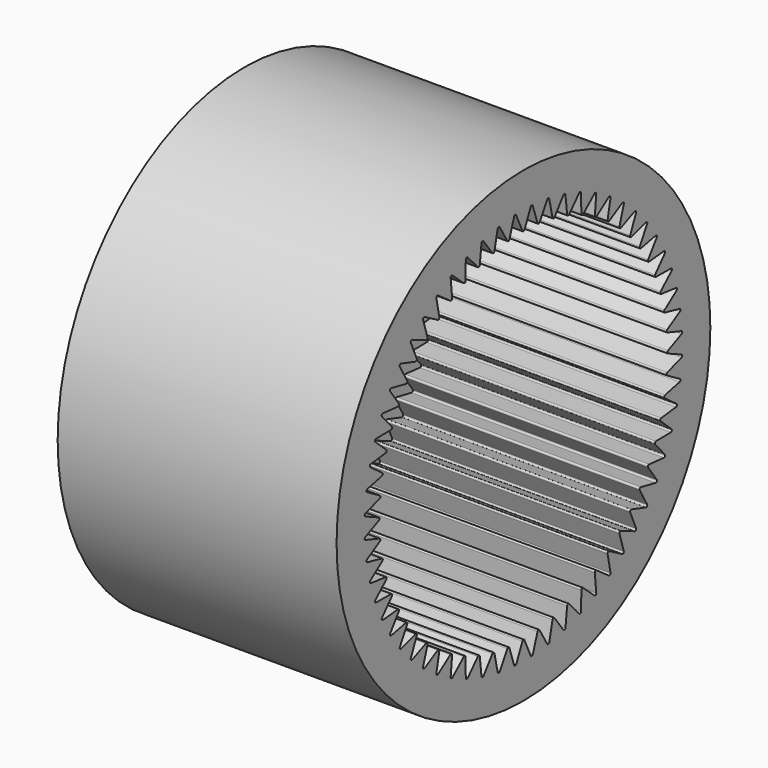
from build123d import *

# Parameters (mm, degrees)
F0_R     = 33.5
F1_DEPTH = 40
F3_DEPTH = 35
F4_R     = 3.05
F5_DEPTH = 40.001


with BuildPart() as f1:
    # F0 (on Right) → F1 (new body)
    with BuildSketch(Plane.YZ):
        Circle(F0_R)
    extrude(amount=F1_DEPTH)

    # F2 (on face) → F3 (cut)
    with BuildSketch(Plane.YZ.offset(40)):
        with BuildLine():
            Line((-0.181921, 25.898279), (-1.299187, 28.344311))
            ThreePointArc((-1.299187, 28.344311), (-1.491575, 28.460942), (-1.670718, 28.32484))
            Line((-1.670718, 28.32484), (-2.526183, 25.775422))
            ThreePointArc((-2.526183, 25.775422), (-2.694887, 25.640142), (-2.888032, 25.73739))
            Line((-2.888032, 25.73739), (-4.254857, 28.053236))
            ThreePointArc((-4.254857, 28.053236), (-4.458382, 28.149118), (-4.622317, 27.995036))
            Line((-4.622317, 27.995036), (-5.20661, 25.370163))
            ThreePointArc((-5.20661, 25.370163), (-5.360249, 25.21799), (-5.5625, 25.294516))
            Line((-5.5625, 25.294516), (-7.16391, 27.454804))
            ThreePointArc((-7.16391, 27.454804), (-7.376343, 27.528886), (-7.523274, 27.358513))
            Line((-7.523274, 27.358513), (-7.829992, 24.686944))
            ThreePointArc((-7.829992, 24.686944), (-7.966883, 24.519544), (-8.176025, 24.574511))
            Line((-8.176025, 24.574511), (-9.994474, 26.555571))
            ThreePointArc((-9.994474, 26.555571), (-10.213487, 26.607042), (-10.341804, 26.422244))
            Line((-10.341804, 26.422244), (-10.367586, 23.733249))
            ThreePointArc((-10.367586, 23.733249), (-10.48623, 23.552458), (-10.699972, 23.585262))
            Line((-10.699972, 23.585262), (-12.715536, 25.36539))
            ThreePointArc((-12.715536, 25.36539), (-12.938729, 25.393686), (-13.047027, 25.196487))
            Line((-13.047027, 25.196487), (-12.791592, 22.519528))
            ThreePointArc((-12.791592, 22.519528), (-12.890687, 22.327325), (-13.106688, 22.337607))
            Line((-13.106688, 22.337607), (-15.297284, 23.8973))
            ThreePointArc((-15.297284, 23.8973), (-15.522212, 23.902111), (-15.609304, 23.694672))
            Line((-15.609304, 23.694672), (-15.07545, 21.059078))
            ThreePointArc((-15.07545, 21.059078), (-15.153912, 20.85757), (-15.369804, 20.845218))
            Line((-15.369804, 20.845218), (-17.711432, 22.167387))
            ThreePointArc((-17.711432, 22.167387), (-17.935631, 22.14866), (-18.000562, 21.933254))
            Line((-18.000562, 21.933254), (-17.194138, 19.367901))
            ThreePointArc((-17.194138, 19.367901), (-17.251107, 19.159295), (-17.464525, 19.124444))
            Line((-17.464525, 19.124444), (-19.93153, 20.194603))
            ThreePointArc((-19.93153, 20.194603), (-20.152543, 20.152543), (-20.194603, 19.93153))
            Line((-20.194603, 19.93153), (-19.124444, 17.464525))
            ThreePointArc((-19.124444, 17.464525), (-19.159295, 17.251107), (-19.367901, 17.194138))
            Line((-19.367901, 17.194138), (-21.933254, 18.000562))
            ThreePointArc((-21.933254, 18.000562), (-22.14866, 17.935631), (-22.167387, 17.711432))
            Line((-22.167387, 17.711432), (-20.845218, 15.369804))
            ThreePointArc((-20.845218, 15.369804), (-20.85757, 15.153912), (-21.059078, 15.07545))
            Line((-21.059078, 15.07545), (-23.694672, 15.609304))
            ThreePointArc((-23.694672, 15.609304), (-23.902111, 15.522212), (-23.8973, 15.297284))
            Line((-23.8973, 15.297284), (-22.337607, 13.106688))
            ThreePointArc((-22.337607, 13.106688), (-22.327325, 12.890687), (-22.519528, 12.791592))
            Line((-22.519528, 12.791592), (-25.196487, 13.047027))
            ThreePointArc((-25.196487, 13.047027), (-25.393686, 12.938729), (-25.36539, 12.715536))
            Line((-25.36539, 12.715536), (-23.585262, 10.699972))
            ThreePointArc((-23.585262, 10.699972), (-23.552458, 10.48623), (-23.733249, 10.367586))
            Line((-23.733249, 10.367586), (-26.422244, 10.341804))
            ThreePointArc((-26.422244, 10.341804), (-26.607042, 10.213487), (-26.555571, 9.994474))
            Line((-26.555571, 9.994474), (-24.574511, 8.176025))
            ThreePointArc((-24.574511, 8.176025), (-24.519544, 7.966883), (-24.686944, 7.829992))
            Line((-24.686944, 7.829992), (-27.358513, 7.523274))
            ThreePointArc((-27.358513, 7.523274), (-27.528886, 7.376343), (-27.454804, 7.16391))
            Line((-27.454804, 7.16391), (-25.294516, 5.5625))
            ThreePointArc((-25.294516, 5.5625), (-25.21799, 5.360249), (-25.370163, 5.20661))
            Line((-25.370163, 5.20661), (-27.995036, 4.622317))
            ThreePointArc((-27.995036, 4.622317), (-28.149118, 4.458382), (-28.053236, 4.254857))
            Line((-28.053236, 4.254857), (-25.73739, 2.888032))
            ThreePointArc((-25.73739, 2.888032), (-25.640142, 2.694887), (-25.775422, 2.526183))
            Line((-25.775422, 2.526183), (-28.32484, 1.670718))
            ThreePointArc((-28.32484, 1.670718), (-28.460942, 1.491575), (-28.344311, 1.299187))
            Line((-28.344311, 1.299187), (-25.898279, 0.181921))
            ThreePointArc((-25.898279, 0.181921), (-25.781375, 0), (-25.898279, -0.181921))
            Line((-25.898279, -0.181921), (-28.344311, -1.299187))
            ThreePointArc((-28.344311, -1.299187), (-28.460942, -1.491575), (-28.32484, -1.670718))
            Line((-28.32484, -1.670718), (-25.775422, -2.526183))
            ThreePointArc((-25.775422, -2.526183), (-25.640142, -2.694887), (-25.73739, -2.888032))
            Line((-25.73739, -2.888032), (-28.053236, -4.254857))
            ThreePointArc((-28.053236, -4.254857), (-28.149118, -4.458382), (-27.995036, -4.622317))
            Line((-27.995036, -4.622317), (-25.370163, -5.20661))
            ThreePointArc((-25.370163, -5.20661), (-25.21799, -5.360249), (-25.294516, -5.5625))
            Line((-25.294516, -5.5625), (-27.454804, -7.16391))
            ThreePointArc((-27.454804, -7.16391), (-27.528886, -7.376343), (-27.358513, -7.523274))
            Line((-27.358513, -7.523274), (-24.686944, -7.829992))
            ThreePointArc((-24.686944, -7.829992), (-24.519544, -7.966883), (-24.574511, -8.176025))
            Line((-24.574511, -8.176025), (-26.555571, -9.994474))
            ThreePointArc((-26.555571, -9.994474), (-26.607042, -10.213487), (-26.422244, -10.341804))
            Line((-26.422244, -10.341804), (-23.733249, -10.367586))
            ThreePointArc((-23.733249, -10.367586), (-23.552458, -10.48623), (-23.585262, -10.699972))
            Line((-23.585262, -10.699972), (-25.36539, -12.715536))
            ThreePointArc((-25.36539, -12.715536), (-25.393686, -12.938729), (-25.196487, -13.047027))
            Line((-25.196487, -13.047027), (-22.519528, -12.791592))
            ThreePointArc((-22.519528, -12.791592), (-22.327325, -12.890687), (-22.337607, -13.106688))
            Line((-22.337607, -13.106688), (-23.8973, -15.297284))
            ThreePointArc((-23.8973, -15.297284), (-23.902111, -15.522212), (-23.694672, -15.609304))
            Line((-23.694672, -15.609304), (-21.059078, -15.07545))
            ThreePointArc((-21.059078, -15.07545), (-20.85757, -15.153912), (-20.845218, -15.369804))
            Line((-20.845218, -15.369804), (-22.167387, -17.711432))
            ThreePointArc((-22.167387, -17.711432), (-22.14866, -17.935631), (-21.933254, -18.000562))
            Line((-21.933254, -18.000562), (-19.367901, -17.194138))
            ThreePointArc((-19.367901, -17.194138), (-19.159295, -17.251107), (-19.124444, -17.464525))
            Line((-19.124444, -17.464525), (-20.194603, -19.93153))
            ThreePointArc((-20.194603, -19.93153), (-20.152543, -20.152543), (-19.93153, -20.194603))
            Line((-19.93153, -20.194603), (-17.464525, -19.124444))
            ThreePointArc((-17.464525, -19.124444), (-17.251107, -19.159295), (-17.194138, -19.367901))
            Line((-17.194138, -19.367901), (-18.000562, -21.933254))
            ThreePointArc((-18.000562, -21.933254), (-17.935631, -22.14866), (-17.711432, -22.167387))
            Line((-17.711432, -22.167387), (-15.369804, -20.845218))
            ThreePointArc((-15.369804, -20.845218), (-15.153912, -20.85757), (-15.07545, -21.059078))
            Line((-15.07545, -21.059078), (-15.609304, -23.694672))
            ThreePointArc((-15.609304, -23.694672), (-15.522212, -23.902111), (-15.297284, -23.8973))
            Line((-15.297284, -23.8973), (-13.106688, -22.337607))
            ThreePointArc((-13.106688, -22.337607), (-12.890687, -22.327325), (-12.791592, -22.519528))
            Line((-12.791592, -22.519528), (-13.047027, -25.196487))
            ThreePointArc((-13.047027, -25.196487), (-12.938729, -25.393686), (-12.715536, -25.36539))
            Line((-12.715536, -25.36539), (-10.699972, -23.585262))
            ThreePointArc((-10.699972, -23.585262), (-10.48623, -23.552458), (-10.367586, -23.733249))
            Line((-10.367586, -23.733249), (-10.341804, -26.422244))
            ThreePointArc((-10.341804, -26.422244), (-10.213487, -26.607042), (-9.994474, -26.555571))
            Line((-9.994474, -26.555571), (-8.176025, -24.574511))
            ThreePointArc((-8.176025, -24.574511), (-7.966883, -24.519544), (-7.829992, -24.686944))
            Line((-7.829992, -24.686944), (-7.523274, -27.358513))
            ThreePointArc((-7.523274, -27.358513), (-7.376343, -27.528886), (-7.16391, -27.454804))
            Line((-7.16391, -27.454804), (-5.5625, -25.294516))
            ThreePointArc((-5.5625, -25.294516), (-5.360249, -25.21799), (-5.20661, -25.370163))
            Line((-5.20661, -25.370163), (-4.622317, -27.995036))
            ThreePointArc((-4.622317, -27.995036), (-4.458382, -28.149118), (-4.254857, -28.053236))
            Line((-4.254857, -28.053236), (-2.888032, -25.73739))
            ThreePointArc((-2.888032, -25.73739), (-2.694887, -25.640142), (-2.526183, -25.775422))
            Line((-2.526183, -25.775422), (-1.670718, -28.32484))
            ThreePointArc((-1.670718, -28.32484), (-1.491575, -28.460942), (-1.299187, -28.344311))
            Line((-1.299187, -28.344311), (-0.181921, -25.898279))
            ThreePointArc((-0.181921, -25.898279), (0, -25.781375), (0.181921, -25.898279))
            Line((0.181921, -25.898279), (1.299187, -28.344311))
            ThreePointArc((1.299187, -28.344311), (1.491575, -28.460942), (1.670718, -28.32484))
            Line((1.670718, -28.32484), (2.526183, -25.775422))
            ThreePointArc((2.526183, -25.775422), (2.694887, -25.640142), (2.888032, -25.73739))
            Line((2.888032, -25.73739), (4.254857, -28.053236))
            ThreePointArc((4.254857, -28.053236), (4.458382, -28.149118), (4.622317, -27.995036))
            Line((4.622317, -27.995036), (5.20661, -25.370163))
            ThreePointArc((5.20661, -25.370163), (5.360249, -25.21799), (5.5625, -25.294516))
            Line((5.5625, -25.294516), (7.16391, -27.454804))
            ThreePointArc((7.16391, -27.454804), (7.376343, -27.528886), (7.523274, -27.358513))
            Line((7.523274, -27.358513), (7.829992, -24.686944))
            ThreePointArc((7.829992, -24.686944), (7.966883, -24.519544), (8.176025, -24.574511))
            Line((8.176025, -24.574511), (9.994474, -26.555571))
            ThreePointArc((9.994474, -26.555571), (10.213487, -26.607042), (10.341804, -26.422244))
            Line((10.341804, -26.422244), (10.367586, -23.733249))
            ThreePointArc((10.367586, -23.733249), (10.48623, -23.552458), (10.699972, -23.585262))
            Line((10.699972, -23.585262), (12.715536, -25.36539))
            ThreePointArc((12.715536, -25.36539), (12.938729, -25.393686), (13.047027, -25.196487))
            Line((13.047027, -25.196487), (12.791592, -22.519528))
            ThreePointArc((12.791592, -22.519528), (12.890687, -22.327325), (13.106688, -22.337607))
            Line((13.106688, -22.337607), (15.297284, -23.8973))
            ThreePointArc((15.297284, -23.8973), (15.522212, -23.902111), (15.609304, -23.694672))
            Line((15.609304, -23.694672), (15.07545, -21.059078))
            ThreePointArc((15.07545, -21.059078), (15.153912, -20.85757), (15.369804, -20.845218))
            Line((15.369804, -20.845218), (17.711432, -22.167387))
            ThreePointArc((17.711432, -22.167387), (17.935631, -22.14866), (18.000562, -21.933254))
            Line((18.000562, -21.933254), (17.194138, -19.367901))
            ThreePointArc((17.194138, -19.367901), (17.251107, -19.159295), (17.464525, -19.124444))
            Line((17.464525, -19.124444), (19.93153, -20.194603))
            ThreePointArc((19.93153, -20.194603), (20.152543, -20.152543), (20.194603, -19.93153))
            Line((20.194603, -19.93153), (19.124444, -17.464525))
            ThreePointArc((19.124444, -17.464525), (19.159295, -17.251107), (19.367901, -17.194138))
            Line((19.367901, -17.194138), (21.933254, -18.000562))
            ThreePointArc((21.933254, -18.000562), (22.14866, -17.935631), (22.167387, -17.711432))
            Line((22.167387, -17.711432), (20.845218, -15.369804))
            ThreePointArc((20.845218, -15.369804), (20.85757, -15.153912), (21.059078, -15.07545))
            Line((21.059078, -15.07545), (23.694672, -15.609304))
            ThreePointArc((23.694672, -15.609304), (23.902111, -15.522212), (23.8973, -15.297284))
            Line((23.8973, -15.297284), (22.337607, -13.106688))
            ThreePointArc((22.337607, -13.106688), (22.327325, -12.890687), (22.519528, -12.791592))
            Line((22.519528, -12.791592), (25.196487, -13.047027))
            ThreePointArc((25.196487, -13.047027), (25.393686, -12.938729), (25.36539, -12.715536))
            Line((25.36539, -12.715536), (23.585262, -10.699972))
            ThreePointArc((23.585262, -10.699972), (23.552458, -10.48623), (23.733249, -10.367586))
            Line((23.733249, -10.367586), (26.422244, -10.341804))
            ThreePointArc((26.422244, -10.341804), (26.607042, -10.213487), (26.555571, -9.994474))
            Line((26.555571, -9.994474), (24.574511, -8.176025))
            ThreePointArc((24.574511, -8.176025), (24.519544, -7.966883), (24.686944, -7.829992))
            Line((24.686944, -7.829992), (27.358513, -7.523274))
            ThreePointArc((27.358513, -7.523274), (27.528886, -7.376343), (27.454804, -7.16391))
            Line((27.454804, -7.16391), (25.294516, -5.5625))
            ThreePointArc((25.294516, -5.5625), (25.21799, -5.360249), (25.370163, -5.20661))
            Line((25.370163, -5.20661), (27.995036, -4.622317))
            ThreePointArc((27.995036, -4.622317), (28.149118, -4.458382), (28.053236, -4.254857))
            Line((28.053236, -4.254857), (25.73739, -2.888032))
            ThreePointArc((25.73739, -2.888032), (25.640142, -2.694887), (25.775422, -2.526183))
            Line((25.775422, -2.526183), (28.32484, -1.670718))
            ThreePointArc((28.32484, -1.670718), (28.460942, -1.491575), (28.344311, -1.299187))
            Line((28.344311, -1.299187), (25.898279, -0.181921))
            ThreePointArc((25.898279, -0.181921), (25.781375, 0), (25.898279, 0.181921))
            Line((25.898279, 0.181921), (28.344311, 1.299187))
            ThreePointArc((28.344311, 1.299187), (28.460942, 1.491575), (28.32484, 1.670718))
            Line((28.32484, 1.670718), (25.775422, 2.526183))
            ThreePointArc((25.775422, 2.526183), (25.640142, 2.694887), (25.73739, 2.888032))
            Line((25.73739, 2.888032), (28.053236, 4.254857))
            ThreePointArc((28.053236, 4.254857), (28.149118, 4.458382), (27.995036, 4.622317))
            Line((27.995036, 4.622317), (25.370163, 5.20661))
            ThreePointArc((25.370163, 5.20661), (25.21799, 5.360249), (25.294516, 5.5625))
            Line((25.294516, 5.5625), (27.454804, 7.16391))
            ThreePointArc((27.454804, 7.16391), (27.528886, 7.376343), (27.358513, 7.523274))
            Line((27.358513, 7.523274), (24.686944, 7.829992))
            ThreePointArc((24.686944, 7.829992), (24.519544, 7.966883), (24.574511, 8.176025))
            Line((24.574511, 8.176025), (26.555571, 9.994474))
            ThreePointArc((26.555571, 9.994474), (26.607042, 10.213487), (26.422244, 10.341804))
            Line((26.422244, 10.341804), (23.733249, 10.367586))
            ThreePointArc((23.733249, 10.367586), (23.552458, 10.48623), (23.585262, 10.699972))
            Line((23.585262, 10.699972), (25.36539, 12.715536))
            ThreePointArc((25.36539, 12.715536), (25.393686, 12.938729), (25.196487, 13.047027))
            Line((25.196487, 13.047027), (22.519528, 12.791592))
            ThreePointArc((22.519528, 12.791592), (22.327325, 12.890687), (22.337607, 13.106688))
            Line((22.337607, 13.106688), (23.8973, 15.297284))
            ThreePointArc((23.8973, 15.297284), (23.902111, 15.522212), (23.694672, 15.609304))
            Line((23.694672, 15.609304), (21.059078, 15.07545))
            ThreePointArc((21.059078, 15.07545), (20.85757, 15.153912), (20.845218, 15.369804))
            Line((20.845218, 15.369804), (22.167387, 17.711432))
            ThreePointArc((22.167387, 17.711432), (22.14866, 17.935631), (21.933254, 18.000562))
            Line((21.933254, 18.000562), (19.367901, 17.194138))
            ThreePointArc((19.367901, 17.194138), (19.159295, 17.251107), (19.124444, 17.464525))
            Line((19.124444, 17.464525), (20.194603, 19.93153))
            ThreePointArc((20.194603, 19.93153), (20.152543, 20.152543), (19.93153, 20.194603))
            Line((19.93153, 20.194603), (17.464525, 19.124444))
            ThreePointArc((17.464525, 19.124444), (17.251107, 19.159295), (17.194138, 19.367901))
            Line((17.194138, 19.367901), (18.000562, 21.933254))
            ThreePointArc((18.000562, 21.933254), (17.935631, 22.14866), (17.711432, 22.167387))
            Line((17.711432, 22.167387), (15.369804, 20.845218))
            ThreePointArc((15.369804, 20.845218), (15.153912, 20.85757), (15.07545, 21.059078))
            Line((15.07545, 21.059078), (15.609304, 23.694672))
            ThreePointArc((15.609304, 23.694672), (15.522212, 23.902111), (15.297284, 23.8973))
            Line((15.297284, 23.8973), (13.106688, 22.337607))
            ThreePointArc((13.106688, 22.337607), (12.890687, 22.327325), (12.791592, 22.519528))
            Line((12.791592, 22.519528), (13.047027, 25.196487))
            ThreePointArc((13.047027, 25.196487), (12.938729, 25.393686), (12.715536, 25.36539))
            Line((12.715536, 25.36539), (10.699972, 23.585262))
            ThreePointArc((10.699972, 23.585262), (10.48623, 23.552458), (10.367586, 23.733249))
            Line((10.367586, 23.733249), (10.341804, 26.422244))
            ThreePointArc((10.341804, 26.422244), (10.213487, 26.607042), (9.994474, 26.555571))
            Line((9.994474, 26.555571), (8.176025, 24.574511))
            ThreePointArc((8.176025, 24.574511), (7.966883, 24.519544), (7.829992, 24.686944))
            Line((7.829992, 24.686944), (7.523274, 27.358513))
            ThreePointArc((7.523274, 27.358513), (7.376343, 27.528886), (7.16391, 27.454804))
            Line((7.16391, 27.454804), (5.5625, 25.294516))
            ThreePointArc((5.5625, 25.294516), (5.360249, 25.21799), (5.20661, 25.370163))
            Line((5.20661, 25.370163), (4.622317, 27.995036))
            ThreePointArc((4.622317, 27.995036), (4.458382, 28.149118), (4.254857, 28.053236))
            Line((4.254857, 28.053236), (2.888032, 25.73739))
            ThreePointArc((2.888032, 25.73739), (2.694887, 25.640142), (2.526183, 25.775422))
            Line((2.526183, 25.775422), (1.670718, 28.32484))
            ThreePointArc((1.670718, 28.32484), (1.491575, 28.460942), (1.299187, 28.344311))
            Line((1.299187, 28.344311), (0.181921, 25.898279))
            ThreePointArc((0.181921, 25.898279), (0, 25.781375), (-0.181921, 25.898279))
        make_face()
    extrude(amount=-F3_DEPTH, mode=Mode.SUBTRACT)

    # F4 (on Right) → F5 (cut, through all)
    with BuildSketch(Plane.YZ):
        Circle(F4_R)
    extrude(amount=F5_DEPTH, mode=Mode.SUBTRACT)


solid = f1.part
